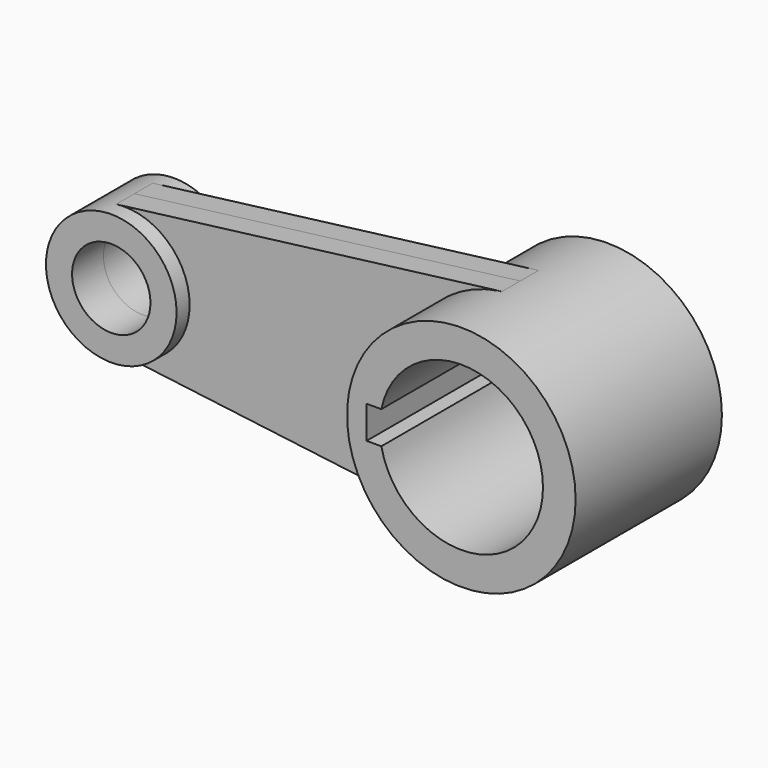
from build123d import *

# Parameters (mm, degrees)
F0_R          = 20
F0_R_2        = 12
F1_DEPTH      = 12
F1_DEPTH_BACK = 12
F0_R_3        = 35
F0_R_4        = 25
F2_DEPTH      = 28
F2_DEPTH_BACK = 28
F4_DEPTH      = 69.4
F6_DEPTH      = 7
F6_DEPTH_BACK = 7


with BuildPart() as f1:
    # F0 (on Front) → F1 (new body, two sides)
    with BuildSketch(Plane.XZ) as f1_sk:
        with Locations((-51.740128547, 0)):
            Circle(F0_R)
        with Locations((-51.740128547, 0)):
            Circle(F0_R_2, mode=Mode.SUBTRACT)
    extrude(amount=F1_DEPTH)
    extrude(f1_sk.sketch, amount=-F1_DEPTH_BACK)


with BuildPart() as f2:
    # F0 (on Front) → F2 (new body, two sides)
    with BuildSketch(Plane.XZ) as f2_sk:
        with Locations((68.259871453, 0)):
            Circle(F0_R_3)
        with Locations((68.259871453, 0)):
            Circle(F0_R_4, mode=Mode.SUBTRACT)
    extrude(amount=F2_DEPTH)
    extrude(f2_sk.sketch, amount=-F2_DEPTH_BACK)

    # F3 (on face) → F4 (cut)
    with BuildSketch(Plane.XZ.offset(28)):
        with BuildLine():
            Line((39.259871453, 0), (43.259871453, 0))
            ThreePointArc((43.259871453, 0), (43.3864676279, 2.5127240501), (43.7649740252, 5))
            Line((43.7649740252, 5), (39.259871453, 5))
            Line((39.259871453, 5), (39.259871453, 0))
        make_face()
        with BuildLine():
            ThreePointArc((43.7649740252, -5), (43.3864676279, -2.5127240501), (43.259871453, 0))
            Line((43.259871453, 0), (39.259871453, 0))
            Line((39.259871453, 0), (39.259871453, -5))
            Line((39.259871453, -5), (43.7649740252, -5))
        make_face()
    extrude(amount=-F4_DEPTH, mode=Mode.SUBTRACT)


with BuildPart() as f6:
    # F5 (on Front) → F6 (new body, two sides)
    with BuildSketch(Plane.XZ) as f6_sk:
        with BuildLine():
            ThreePointArc((-31.740128547, 0), (-38.5113720324, -15.000000036), (-54.240128655, -19.8431348194))
            Line((-54.240128655, -19.8431348194), (63.8848715238, -34.7254859666))
            ThreePointArc((63.8848715238, -34.7254859666), (33.259871453, 1.118e-07), (63.8848717456, 34.7254859946))
            Line((63.8848717456, 34.7254859946), (-54.2401285338, 19.8431348346))
            ThreePointArc((-54.2401285338, 19.8431348346), (-38.5113719867, 14.9999999956), (-31.740128547, 0))
        make_face()
    extrude(amount=F6_DEPTH)
    extrude(f6_sk.sketch, amount=-F6_DEPTH_BACK)


solid = Compound([f1.part, f2.part, f6.part])
